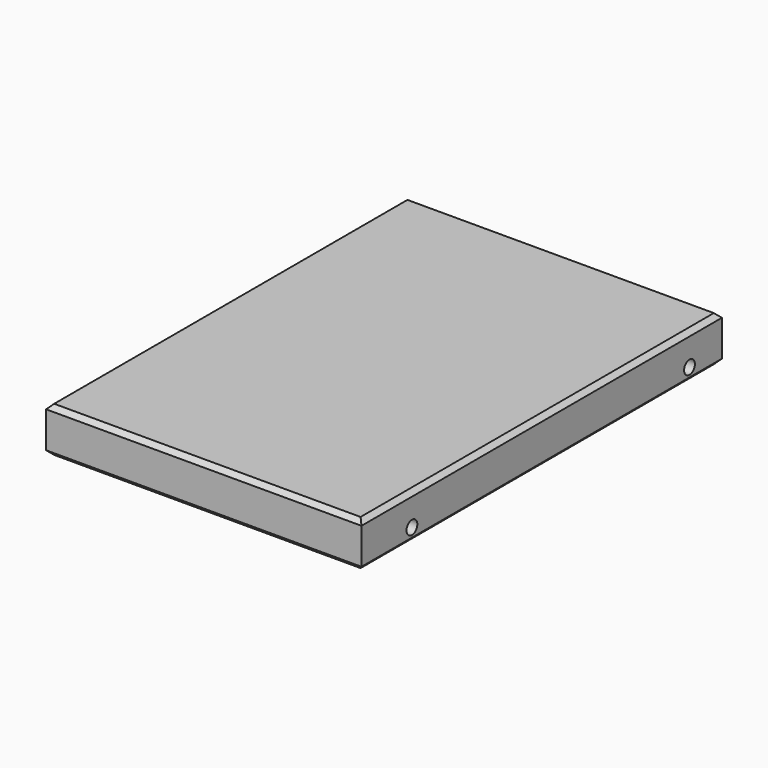
from build123d import *

# Parameters (mm, degrees)
SKETCH070_W             = 70
SKETCH070_H             = 100
PAD024_DEPTH            = 10
SKETCH071_R             = 1.5
POCKET046_DEPTH         = 70.001
CHAMFER006_SIZE         = 1
BODY020_PLACEMENT_ANGLE = 180


with BuildPart() as part:
    # Sketch070 → Pad024 (new body)
    with BuildSketch(Plane.XY):
        Rectangle(SKETCH070_W, SKETCH070_H)
    extrude(amount=PAD024_DEPTH)

    # Sketch071 (on Face3 of Pad024) → Pocket046 (cut, through all)
    with BuildSketch(Plane.YZ.offset(35)):
        with Locations((36, 3)):
            Circle(SKETCH071_R)
        with Locations((-41, 3)):
            Circle(SKETCH071_R)
    extrude(amount=-POCKET046_DEPTH, mode=Mode.SUBTRACT)

    # Chamfer006
    chamfer006_edges = [part.edges().sort_by_distance(p)[0] for p in [
        (-35, 0, 0),
        (0, -50, 0),
        (35, 0, 0),
        (0, 50, 0),
        (-35, 0, 10),
        (0, -50, 10),
        (35, 0, 10),
        (0, 50, 10),
    ]]
    chamfer(chamfer006_edges, length=CHAMFER006_SIZE)


with BuildPart() as part_1:
    # Body020 placement: moved
    add(part.part.moved(Location((63.5, 55.3, 56.5))).rotate(Axis((63.5, 55.3, 56.5), (0, 0, 1)), BODY020_PLACEMENT_ANGLE))


solid = part_1.part
